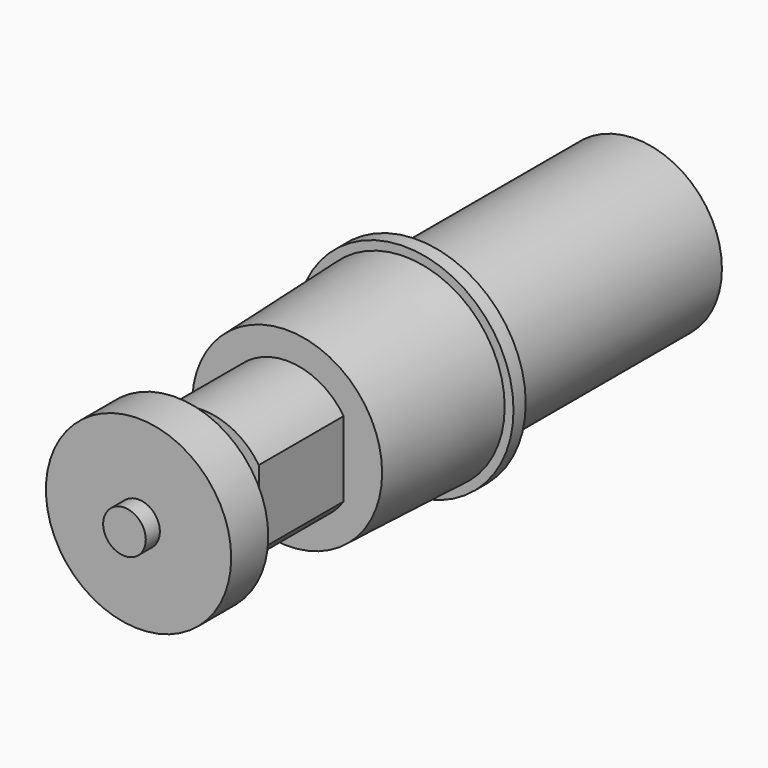
from build123d import *

# Parameters (mm, degrees)
F0_R     = 18.65
F1_DEPTH = 59
F4_R     = 6
F4_R_2   = 4.6
F5_DEPTH = 22.9
F6_DEPTH = 30.1
F7_DEPTH = 43.9
F8_R     = 20
F8_R_2   = 6
F9_DEPTH = 10


with BuildPart() as f1:
    # F0 (on Front) → F1 (new body)
    with BuildSketch(Plane.XZ):
        Circle(F0_R)
    extrude(amount=-F1_DEPTH)

    # F2 (on Top) → F3 (revolve)
    with BuildSketch(Plane.XY):
        Polygon((23.5, 0), (0, 0), (0, -35), (20.5, -35), (21.6, -3.3), (23.5, -3.3), align=None)
    revolve(axis=Axis((0, -17.5, 0), (0, -1, 0)))

    # F4 (on face) → F5 (join)
    with BuildSketch(Plane.XZ.offset(35)):
        with BuildLine():
            ThreePointArc((12.2, 8.110641), (0, 14.65), (-12.2, 8.110641))
            Line((-12.2, 8.110641), (-12.2, -8.110641))
            ThreePointArc((-12.2, -8.110641), (0, -14.65), (12.2, -8.110641))
            Line((12.2, -8.110641), (12.2, 8.110641))
        make_face()
        Circle(F4_R, mode=Mode.SUBTRACT)
        Circle(F4_R)
        Circle(F4_R_2, mode=Mode.SUBTRACT)
        Circle(F4_R_2)
    extrude(amount=F5_DEPTH)

    # F4 (on face) → F6 (join)
    with BuildSketch(Plane.XZ.offset(35)):
        Circle(F4_R)
        Circle(F4_R_2, mode=Mode.SUBTRACT)
        Circle(F4_R_2)
    extrude(amount=F6_DEPTH)

    # F4 (on face) → F7 (join)
    with BuildSketch(Plane.XZ.offset(35)):
        Circle(F4_R_2)
    extrude(amount=F7_DEPTH)

    # F8 (on face) → F9 (join)
    with BuildSketch(Plane.XZ.offset(65.1)):
        Circle(F8_R)
        Circle(F8_R_2)
    extrude(amount=F9_DEPTH)


solid = f1.part
